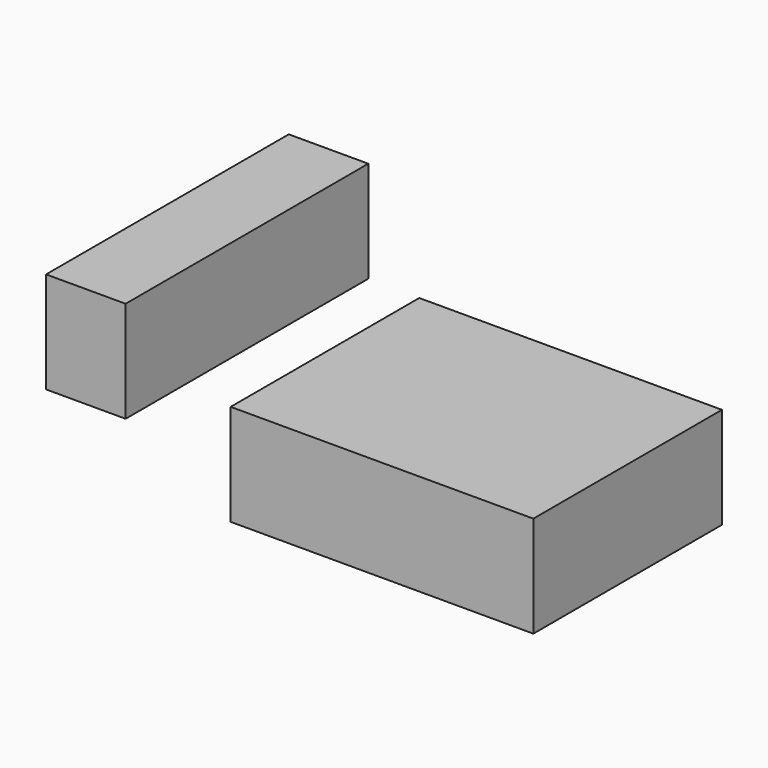
from build123d import *

# Parameters (mm, degrees)
F0_W     = 75.912483
F0_H     = 59.120152
F0_W_2   = 19.944422
F0_H_2   = 76.080642
F1_DEPTH = 25.4


with BuildPart() as f1:
    # F0 (on Top) → F1 (new body)
    with BuildSketch(Plane.XY):
        with Locations((37.956241, -29.560076)):
            Rectangle(F0_W, F0_H)
        with Locations((-53.348806, 0.202246)):
            Rectangle(F0_W_2, F0_H_2)
    extrude(amount=F1_DEPTH)


solid = f1.part
